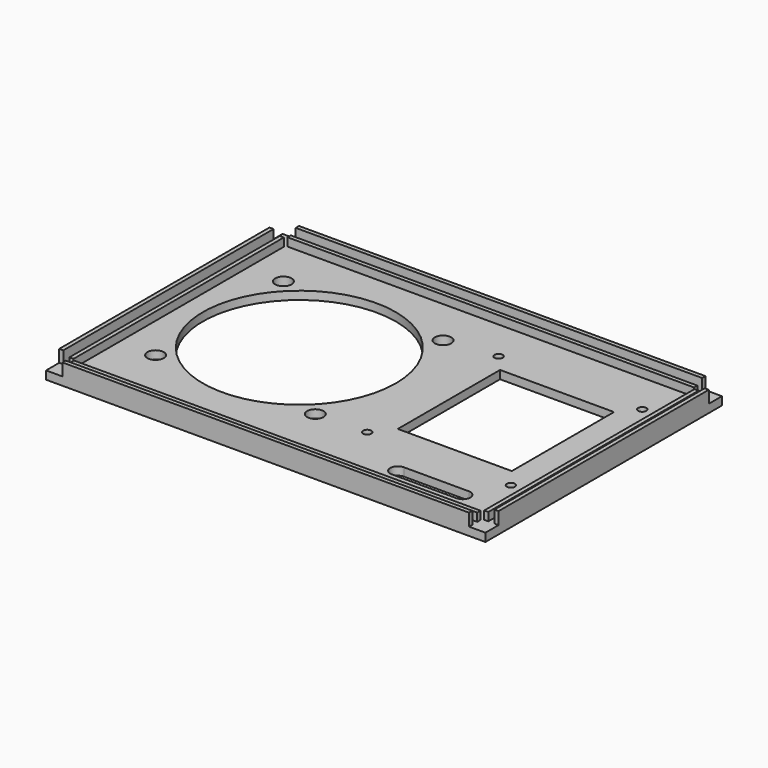
from build123d import *

# Parameters (mm, degrees)
SKETCH_W      = 107
SKETCH_H      = 72
PAD_DEPTH     = 2
SKETCH001_W   = 1
SKETCH001_H   = 64
PAD001_DEPTH  = 3
SKETCH002_W   = 1
SKETCH002_H   = 64
PAD002_DEPTH  = 2
SKETCH003_W   = 1
SKETCH003_H   = 64
PAD003_DEPTH  = 2
SKETCH004_W   = 1
SKETCH004_H   = 64
PAD004_DEPTH  = 3
SKETCH005_W   = 99
SKETCH005_H   = 1
PAD005_DEPTH  = 3
SKETCH006_W   = 99
SKETCH006_H   = 1
PAD006_DEPTH  = 2
SKETCH007_W   = 99
SKETCH007_H   = 1
PAD007_DEPTH  = 2
SKETCH008_W   = 99
SKETCH008_H   = 1
PAD008_DEPTH  = 3
SKETCH009_R   = 23.5
SKETCH009_R_2 = 2
SKETCH009_R_3 = 1
SKETCH009_W   = 27.757637
SKETCH009_H   = 31.122207
POCKET_DEPTH  = 2.001


with BuildPart() as part:
    # Sketch → Pad (new body)
    with BuildSketch(Plane.XY):
        with Locations((53.5, 36)):
            Rectangle(SKETCH_W, SKETCH_H)
    extrude(amount=-PAD_DEPTH)

    # Sketch001 → Pad001 (join)
    with BuildSketch(Plane.XY):
        with Locations((0.5, 36)):
            Rectangle(SKETCH001_W, SKETCH001_H)
    extrude(amount=PAD001_DEPTH)

    # Sketch002 → Pad002 (join)
    with BuildSketch(Plane.XY):
        with Locations((3, 36)):
            Rectangle(SKETCH002_W, SKETCH002_H)
    extrude(amount=PAD002_DEPTH)

    # Sketch003 → Pad003 (join)
    with BuildSketch(Plane.XY):
        with Locations((104, 36)):
            Rectangle(SKETCH003_W, SKETCH003_H)
    extrude(amount=PAD003_DEPTH)

    # Sketch004 → Pad004 (join)
    with BuildSketch(Plane.XY):
        with Locations((106.5, 36)):
            Rectangle(SKETCH004_W, SKETCH004_H)
    extrude(amount=PAD004_DEPTH)

    # Sketch005 → Pad005 (join)
    with BuildSketch(Plane.XY):
        with Locations((53.5, 71.5)):
            Rectangle(SKETCH005_W, SKETCH005_H)
    extrude(amount=PAD005_DEPTH)

    # Sketch006 → Pad006 (join)
    with BuildSketch(Plane.XY):
        with Locations((53.5, 69)):
            Rectangle(SKETCH006_W, SKETCH006_H)
    extrude(amount=PAD006_DEPTH)

    # Sketch007 → Pad007 (join)
    with BuildSketch(Plane.XY):
        with Locations((53.5, 3)):
            Rectangle(SKETCH007_W, SKETCH007_H)
    extrude(amount=PAD007_DEPTH)

    # Sketch008 → Pad008 (join)
    with BuildSketch(Plane.XY):
        with Locations((53.5, 0.5)):
            Rectangle(SKETCH008_W, SKETCH008_H)
    extrude(amount=PAD008_DEPTH)

    # Sketch009 → Pocket (cut, through all)
    with BuildSketch(Plane.XY):
        with Locations((31.773752, 37.38124)):
            Circle(SKETCH009_R)
        with Locations((12.328316, 56.826676)):
            Circle(SKETCH009_R_2)
        with Locations((51.219189, 56.826676)):
            Circle(SKETCH009_R_2)
        with Locations((51.219189, 17.935803)):
            Circle(SKETCH009_R_2)
        with Locations((12.328316, 17.935803)):
            Circle(SKETCH009_R_2)
        with Locations((63.572306, 58.290639)):
            Circle(SKETCH009_R_3)
        with Locations((98.572306, 58.290639)):
            Circle(SKETCH009_R_3)
        with Locations((63.572306, 18.290639)):
            Circle(SKETCH009_R_3)
        with Locations((98.572306, 18.290639)):
            Circle(SKETCH009_R_3)
        with BuildLine():
            ThreePointArc((78.061318, 11.354568), (76.210807, 9.504057), (78.061318, 7.653547))
            Line((78.061318, 7.653547), (93.874763, 7.653547))
            ThreePointArc((93.874763, 7.653547), (95.725274, 9.504057), (93.874763, 11.354568))
            Line((78.061318, 11.354568), (93.874763, 11.354568))
        make_face()
        with Locations((81.173542, 38.523415)):
            Rectangle(SKETCH009_W, SKETCH009_H)
    extrude(amount=-POCKET_DEPTH, mode=Mode.SUBTRACT)


solid = part.part
